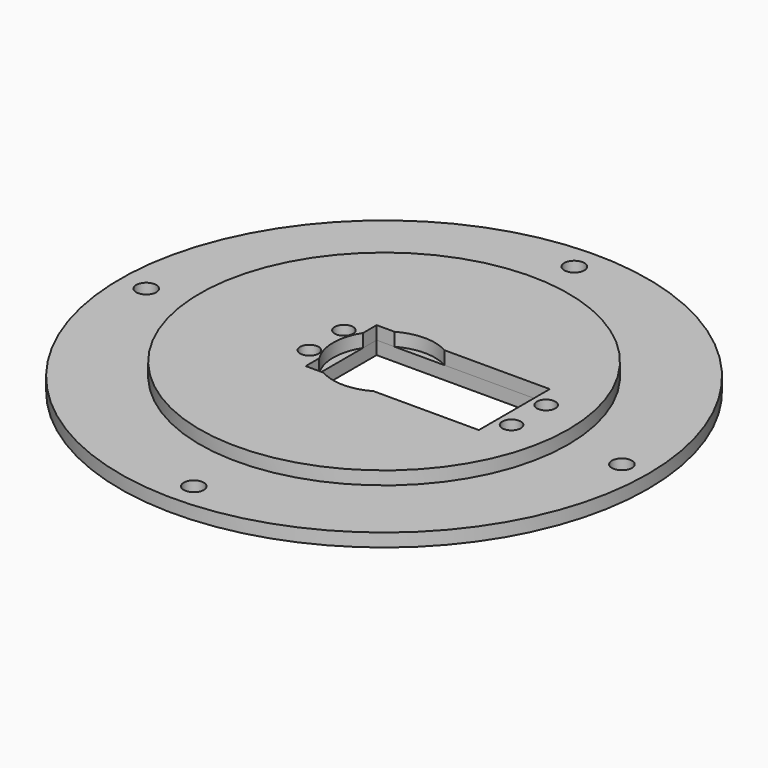
from build123d import *

# Parameters (mm, degrees)
F0_R     = 63.5
F1_DEPTH = 3.175
F2_R     = 63.5
F2_R_2   = 50.927
F3_DEPTH = 3.175
F2_R_3   = 44.323
F4_W     = 41.656
F4_H     = 21.336
F4_R     = 2.2225
F4_R_2   = 2.413
F5_DEPTH = 6.351
F6_DEPTH = 25.4
F7_R     = 12.2505894572
F8_DEPTH = 6.351


with BuildPart() as f1:
    # F0 (on Top) → F1 (new body)
    with BuildSketch(Plane.XY):
        Circle(F0_R)
    extrude(amount=F1_DEPTH)


with BuildPart() as f3:
    # F2 (on face) → F3 (new body)
    with BuildSketch(Plane.XY.offset(3.175)):
        Circle(F2_R)
        Circle(F2_R_2, mode=Mode.SUBTRACT)
    extrude(amount=F3_DEPTH)


with BuildPart() as f3b:
    # F2 (on face) → F3, piece 2 (new body)
    with BuildSketch(Plane.XY.offset(3.175)):
        Circle(F2_R_3)
    extrude(amount=F3_DEPTH)


with BuildPart() as f5_tool:
    # F4 (on face) → F5 (new body, through all)
    with BuildSketch(Plane(origin=(0, 0, 0), x_dir=(1, 0, 0), z_dir=(0, 0, -1))):
        with Locations((10.4976304106, 0)):
            Rectangle(F4_W, F4_H)
        with Locations((34.8181304106, -5.1943)):
            Circle(F4_R)
        with Locations((34.8181304106, 5.1943)):
            Circle(F4_R)
        with Locations((-13.8228695894, 5.1943)):
            Circle(F4_R)
        with Locations((-13.8228695894, -5.1943)):
            Circle(F4_R)
        with Locations((-57.2135, 0)):
            Circle(F4_R_2)
        with Locations((0, -57.2135)):
            Circle(F4_R_2)
        with Locations((57.2135, 0)):
            Circle(F4_R_2)
        with Locations((0, 57.2135)):
            Circle(F4_R_2)
    extrude(amount=-F5_DEPTH)


with BuildPart() as f1_1:
    add(f1.part)

    # F5: cut by f5_tool
    add(f5_tool.part, mode=Mode.SUBTRACT)

    # F4 (on face) → F6 (cut)
    with BuildSketch(Plane(origin=(0, 0, 0), x_dir=(1, 0, 0), z_dir=(0, 0, -1))):
        with Locations((-57.2135, 0)):
            Circle(F4_R_2)
        with Locations((0, 57.2135)):
            Circle(F4_R_2)
        with Locations((57.2135, 0)):
            Circle(F4_R_2)
        with Locations((0, -57.2135)):
            Circle(F4_R_2)
    extrude(amount=-F6_DEPTH, mode=Mode.SUBTRACT)


with BuildPart() as f3_1:
    add(f3.part)

    # F5: cut by f5_tool
    add(f5_tool.part, mode=Mode.SUBTRACT)


with BuildPart() as f3b_1:
    add(f3b.part)

    # F5: cut by f5_tool
    add(f5_tool.part, mode=Mode.SUBTRACT)

    # F7 (on face) → F8 (cut, through all)
    with BuildSketch(Plane.XY.offset(6.35)):
        Circle(F7_R)
    extrude(amount=-F8_DEPTH, mode=Mode.SUBTRACT)


solid = Compound([f1_1.part, f3b_1.part])
